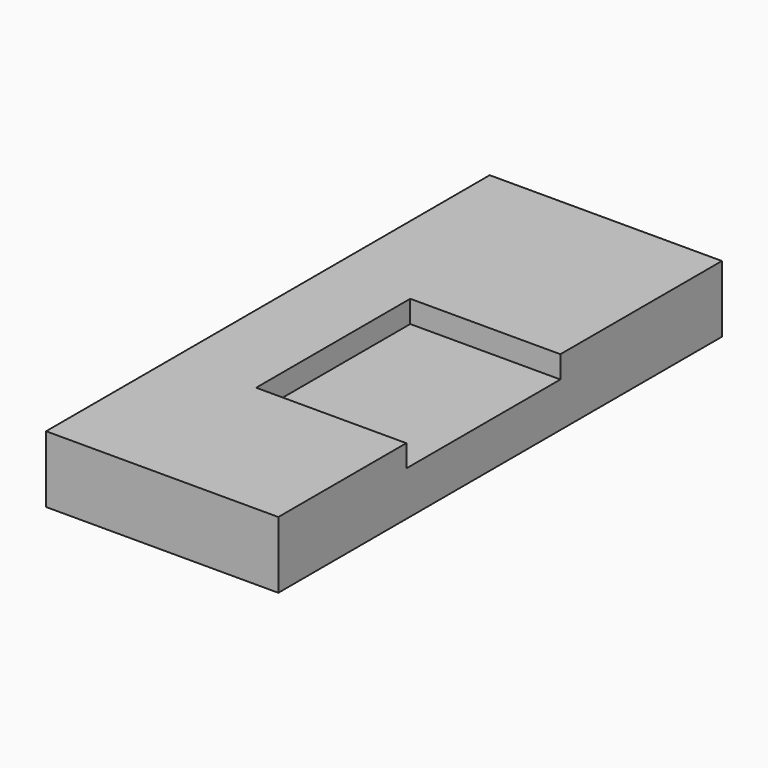
from build123d import *

# Parameters (mm, degrees)
F0_W     = 53.0420094728
F0_H     = 126.6452521086
F1_DEPTH = 10.16
F2_W     = 34.2897039372
F2_H     = 36.5310497582
F2_H_2   = 46.119553037
F3_DEPTH = 5.08


with BuildPart() as f1:
    # F0 (on Top) → F1 (new body)
    with BuildSketch(Plane.XY):
        with Locations((4.1718427092, -7.1517303586)):
            Rectangle(F0_W, F0_H)
    extrude(amount=F1_DEPTH)

    # F2 (on face) → F3 (join)
    with BuildSketch(Plane.XY.offset(10.16)):
        with Locations((13.547995477, -52.2088315338)):
            Rectangle(F2_W, F2_H)
        Polygon((-22.3491620272, 56.1708956957), (-22.3491620272, -70.4743564129), (-3.5968564916, -70.4743564129), (-3.5968564916, -33.9433066547), (-3.5968564916, 10.0513426587), (-3.5968564916, 56.1708956957), align=None)
        with Locations((13.547995477, 33.1111191772)):
            Rectangle(F2_W, F2_H_2)
    extrude(amount=F3_DEPTH)


solid = f1.part
